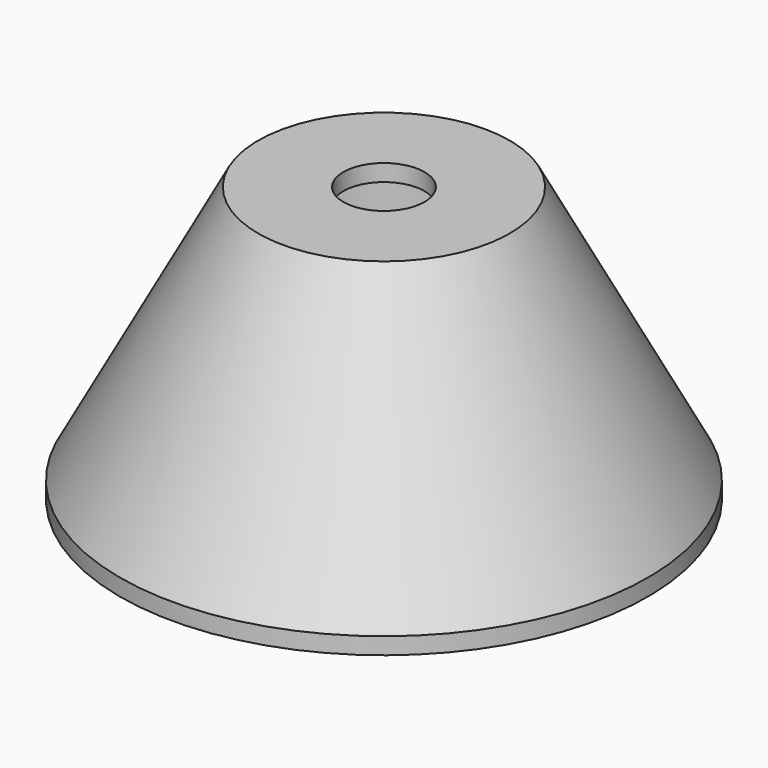
from build123d import *

# Parameters (mm, degrees)
F2_R     = 7.25
F3_DEPTH = 49.143856


with BuildPart() as f1:
    # F0 (on Right) → F1 (revolve)
    with BuildSketch(Plane.YZ):
        Polygon((71.460823, 82.663111), (48.960823, 82.663111), (48.960823, 79.663111), (66.460823, 79.663111), (66.460823, 39.663111), (86.151158, 33.520255), (96.151158, 33.520255), (96.151158, 36.520255), align=None)
    revolve(axis=Axis((0, 48.960823, 81.163111), (0, 0, -1)))

    # F2 (on face) → F3 (cut, through all)
    with BuildSketch(Plane.XY.offset(82.663111)):
        with Locations((0, 48.960823)):
            Circle(F2_R)
    extrude(amount=-F3_DEPTH, mode=Mode.SUBTRACT)


solid = f1.part
